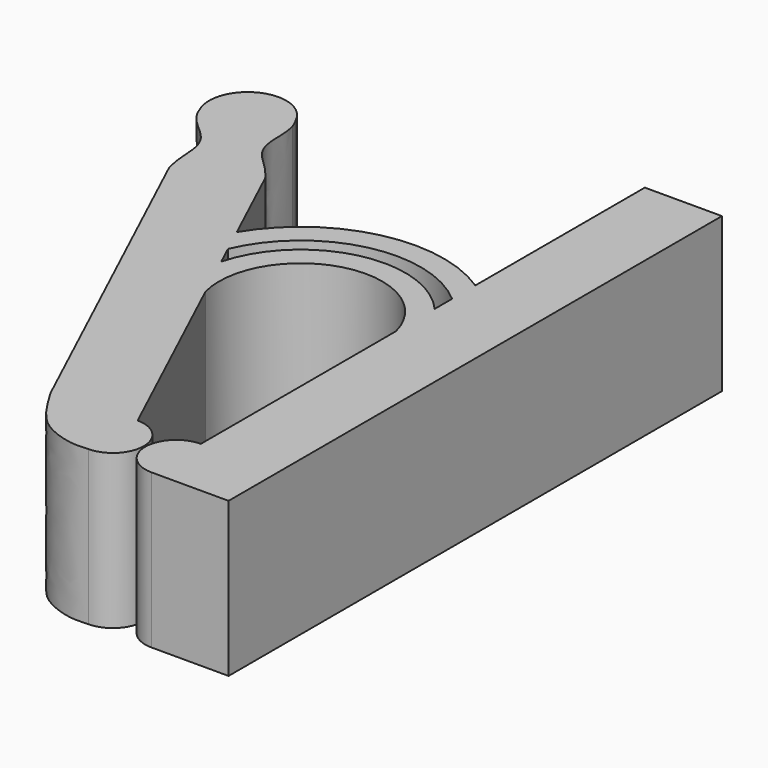
from build123d import *

# Parameters (mm, degrees)
F1_DEPTH = 10


with BuildPart() as f1:
    # F0 (on Top) → F1 (new body)
    with BuildSketch(Plane.XY):
        with BuildLine():
            Line((0, -46), (0, -50))
            Line((0, -50), (5, -50))
            Line((5, -50), (5, -10))
            Line((5, -10), (0, -10))
            Line((0, -10), (0, -23.7465099845))
            ThreePointArc((0, -23.7465099845), (-7.1801547597, -22.4386210052), (-13.0898229619, -26.7212624441))
            Line((-13.0898229619, -26.7212624441), (-15.6031865868, -21.3313367567))
            add(Edge.make_bspline(
                [(-15.6185883161, -21.2983076415), (-15.6129030009, -21.3119560262), (-15.60862851, -21.3225498466), (-15.6031865868, -21.3313367567)],
                knots=[0.977223779, 0.977223779, 0.977223779, 0.977223779, 1, 1, 1, 1], degree=3))
            Line((-15.6185883161, -21.2983076415), (-15.6431366995, -21.2456634636))
            add(Edge.make_bspline(
                [(-18.1603847106, -15.8474076831), (-18.0656375135, -16.1318812632), (-17.9531363317, -16.8372382113), (-17.9953586247, -17.8312101574), (-17.7720732827, -18.8395115429), (-17.1575531127, -19.6235716953), (-16.2178245743, -20.4468788305), (-15.7132912883, -21.1135649229), (-15.6431366995, -21.2456634636)],
                knots=[0.0731103413, 0.0731103413, 0.0731103413, 0.0731103413, 0.1818906652, 0.3429334127, 0.4914095539, 0.638760414, 0.8119352102, 0.9539840777, 0.9539840777, 0.9539840777, 0.9539840777], degree=3))
            Line((-18.1603847106, -15.8474076831), (-18.4264528089, -15.276822805))
            ThreePointArc((-18.4264528089, -15.276822805), (-21.7487679308, -14.0675989918), (-22.9579917441, -17.3899141137))
            Line((-22.9579917441, -17.3899141137), (-22.6919236458, -17.9604989918))
            add(Edge.make_bspline(
                [(-22.6919236458, -17.9604989918), (-22.5349065648, -18.2159356482), (-22.0668861601, -18.7555112601), (-21.2783195074, -19.3620799584), (-20.6494408853, -20.1812500913), (-20.4438219137, -21.1559840039), (-20.4171779187, -22.4050694543), (-20.2307744872, -23.2201019342), (-20.1746756346, -23.3587547723)],
                knots=[0.0731103413, 0.0731103413, 0.0731103413, 0.0731103413, 0.1818906652, 0.3429334127, 0.4914095539, 0.638760414, 0.8119352102, 0.9539840777, 0.9539840777, 0.9539840777, 0.9539840777], degree=3))
            Line((-20.1746756346, -23.3587547723), (-20.1501272513, -23.4113989502))
            add(Edge.make_bspline(
                [(-20.1501272513, -23.4113989502), (-20.1433264323, -23.424527167), (-20.1379586848, -23.4346111934), (-20.134725522, -23.4444280654)],
                knots=[0.977223779, 0.977223779, 0.977223779, 0.977223779, 1, 1, 1, 1], degree=3))
            Line((-20.134725522, -23.4444280654), (-9.4418458787, -46.3753824606))
            Line((-9.4418458787, -46.3753824606), (-9.4342073684, -46.3917632989))
            add(Edge.make_bspline(
                [(-4.1, -50), (-4.4541591547, -50.0283590995), (-5.2485688525, -50.0919710191), (-7.032522068, -49.5156946492), (-8.2497645052, -48.4232019976), (-9.3748561533, -46.5043333773), (-9.4342073684, -46.3917632989)],
                knots=[0, 0, 0, 0, 0.1985232503, 0.4453048669, 0.7041273408, 0.9748794476, 0.9748794476, 0.9748794476, 0.9748794476], degree=3))
            Line((-4.1, -50), (-4.1, -46))
            Line((-4.1, -46), (-10.2424822871, -32.8274042261))
            ThreePointArc((-10.2424822871, -32.8274042261), (-6.450173135, -26.3772310911), (0, -30.1695402432))
            Line((0, -30.1695402432), (0, -46))
        make_face()
        with BuildLine():
            Line((0, -25.6273269635), (0, -27.0388049632))
            ThreePointArc((0, -27.0388049632), (-6.6524566721, -24.8824974745), (-11.6810892829, -29.7423015678))
            Line((-11.6810892829, -29.7423015678), (-12.287472657, -28.4419082256))
            ThreePointArc((-12.287472657, -28.4419082256), (-6.8607707706, -23.9042972089), (0, -25.6273269635))
        make_face(mode=Mode.SUBTRACT)
        with BuildLine():
            ThreePointArc((0, -46), (-2, -48), (0, -50))
            Line((0, -50), (0, -46))
        make_face()
        with BuildLine():
            ThreePointArc((-4.1, -50), (-2.1, -48), (-4.1, -46))
            Line((-4.1, -46), (-4.1, -50))
        make_face()
        with BuildLine():
            add(Edge.make_bspline(
                [(-15.6185883161, -21.2983076415), (-15.6129030009, -21.3119560262), (-15.60862851, -21.3225498466), (-15.6031865868, -21.3313367567)],
                knots=[0.977223779, 0.977223779, 0.977223779, 0.977223779, 1, 1, 1, 1], degree=3))
            Line((-15.6031865868, -21.3313367567), (-15.6185883161, -21.2983076415))
        make_face()
        with BuildLine():
            add(Edge.make_bspline(
                [(-9.4342073684, -46.3917632989), (-9.4397140118, -46.3813189755), (-9.4407799452, -46.3783507181), (-9.4418458787, -46.3753824606)],
                knots=[0.9748794476, 0.9748794476, 0.9748794476, 0.9748794476, 1, 1, 1, 1], degree=3))
            Line((-9.4342073684, -46.3917632989), (-9.4418458787, -46.3753824606))
        make_face()
        with BuildLine():
            Line((-15.6431366995, -21.2456634636), (-15.6185883161, -21.2983076415))
            add(Edge.make_bspline(
                [(-15.6431366995, -21.2456634636), (-15.6316591585, -21.267275256), (-15.6243893237, -21.2843815216), (-15.6185883161, -21.2983076415)],
                knots=[0.9539840777, 0.9539840777, 0.9539840777, 0.9539840777, 0.977223779, 0.977223779, 0.977223779, 0.977223779], degree=3))
        make_face()
        with BuildLine():
            Line((-20.1501272513, -23.4113989502), (-20.134725522, -23.4444280654))
            add(Edge.make_bspline(
                [(-20.1501272513, -23.4113989502), (-20.1433264323, -23.424527167), (-20.1379586848, -23.4346111934), (-20.134725522, -23.4444280654)],
                knots=[0.977223779, 0.977223779, 0.977223779, 0.977223779, 1, 1, 1, 1], degree=3))
        make_face()
        with BuildLine():
            Line((-18.4264528089, -15.276822805), (-18.1603847106, -15.8474076831))
            add(Edge.make_bspline(
                [(-18.4264528089, -15.276822805), (-18.3100529564, -15.464975238), (-18.2240635052, -15.6562153814), (-18.1603847106, -15.8474076831)],
                knots=[0, 0, 0, 0, 0.0731103413, 0.0731103413, 0.0731103413, 0.0731103413], degree=3))
        make_face()
        with BuildLine():
            add(Edge.make_bspline(
                [(-20.1746756346, -23.3587547723), (-20.1654976623, -23.3814388712), (-20.1570664623, -23.3980035833), (-20.1501272513, -23.4113989502)],
                knots=[0.9539840777, 0.9539840777, 0.9539840777, 0.9539840777, 0.977223779, 0.977223779, 0.977223779, 0.977223779], degree=3))
            Line((-20.1501272513, -23.4113989502), (-20.1746756346, -23.3587547723))
        make_face()
        with BuildLine():
            Line((-22.6919236458, -17.9604989918), (-22.9579917441, -17.3899141137))
            add(Edge.make_bspline(
                [(-22.9579917441, -17.3899141137), (-22.8886790012, -17.6000236265), (-22.7974535059, -17.7888221624), (-22.6919236458, -17.9604989918)],
                knots=[0, 0, 0, 0, 0.0731103413, 0.0731103413, 0.0731103413, 0.0731103413], degree=3))
        make_face()
    extrude(amount=F1_DEPTH)


solid = f1.part
